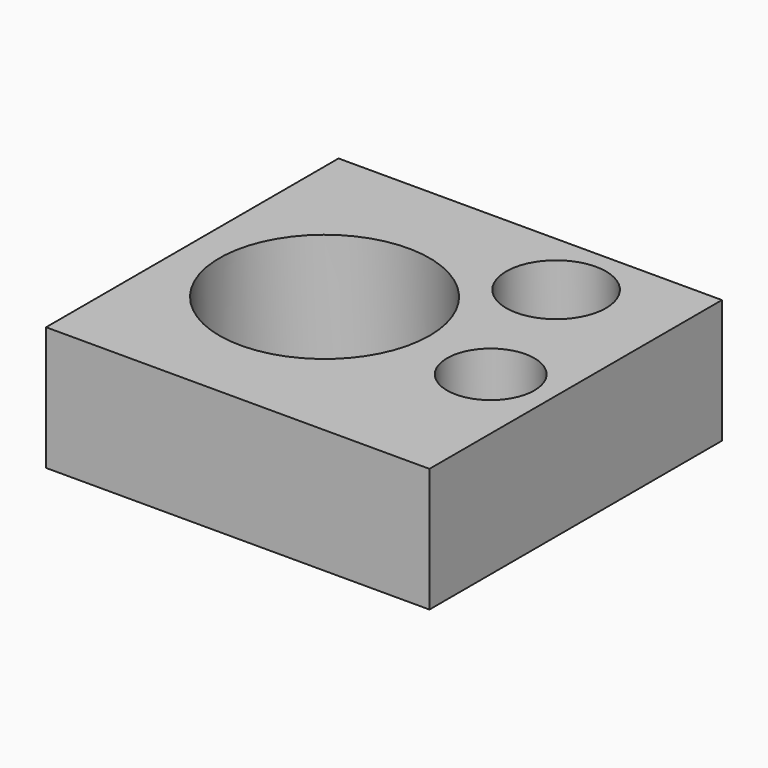
from build123d import *

# Parameters (mm, degrees)
F0_W     = 78.606315
F0_H     = 74.956738
F1_DEPTH = 25.4
F2_R     = 21.545824
F2_R_2   = 10.217276
F2_R_3   = 8.95222
F3_DEPTH = 25.4


with BuildPart() as f1:
    # F0 (on Top) → F1 (new body)
    with BuildSketch(Plane.XY):
        with Locations((5.065217, 5.755104)):
            Rectangle(F0_W, F0_H)
    extrude(amount=F1_DEPTH)

    # F2 (on face) → F3 (cut, through all)
    with BuildSketch(Plane.XY.offset(25.4)):
        with Locations((-6.003466, 4.350357)):
            Circle(F2_R)
        with Locations((21.404887, 29.440297)):
            Circle(F2_R_2)
        with Locations((31.549435, 0)):
            Circle(F2_R_3)
    extrude(amount=-F3_DEPTH, mode=Mode.SUBTRACT)


solid = f1.part
